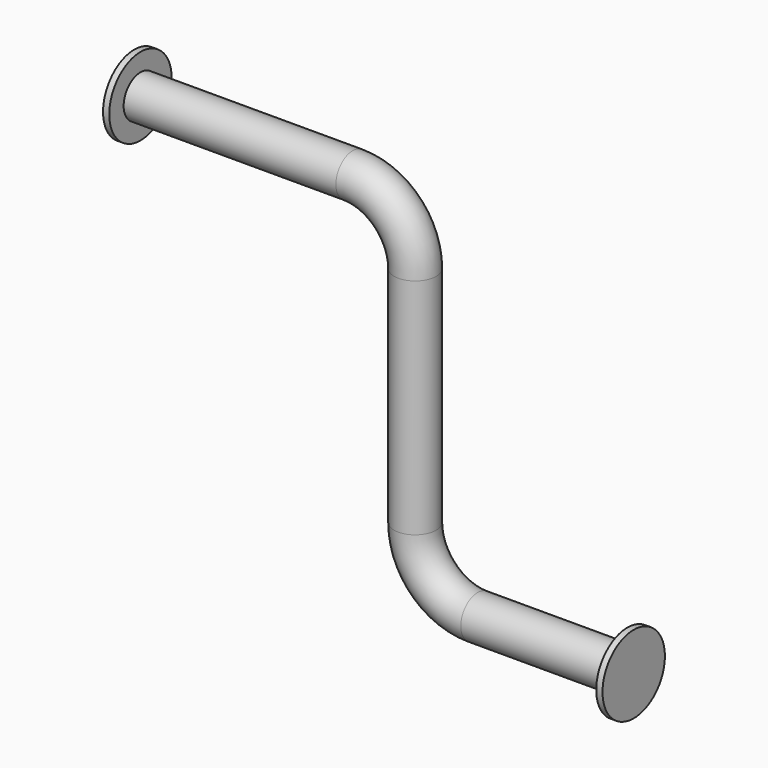
from build123d import *

# Parameters (mm, degrees)
F1_R     = 67.5
F1_R_2   = 125
F3_DEPTH = 20
F4_R     = 125
F5_DEPTH = 20


with BuildPart() as f2:
    # F2: sweep along a path in F0
    with BuildLine(Plane.XZ) as f2_path:
        Line((0, 0), (700, 0))
        ThreePointArc((700, 0), (841.421356, -58.578644), (900, -200))
        Line((900, -200), (900, -916))
        ThreePointArc((900, -916), (958.578644, -1057.421356), (1100, -1116))
        Line((1100, -1116), (1600, -1116))
    # F1 (on Right) → F2 (sweep)
    with BuildSketch(Plane.YZ):
        Circle(F1_R)
    sweep(path=f2_path.line)

    # F1 (on Right) → F3 (join)
    with BuildSketch(Plane.YZ):
        Circle(F1_R_2)
        Circle(F1_R, mode=Mode.SUBTRACT)
    extrude(amount=F3_DEPTH)

    # F4 (on face) → F5 (join)
    with BuildSketch(Plane.YZ.offset(1600)):
        with Locations((0, -1116)):
            Circle(F4_R)
    extrude(amount=-F5_DEPTH)


solid = f2.part
